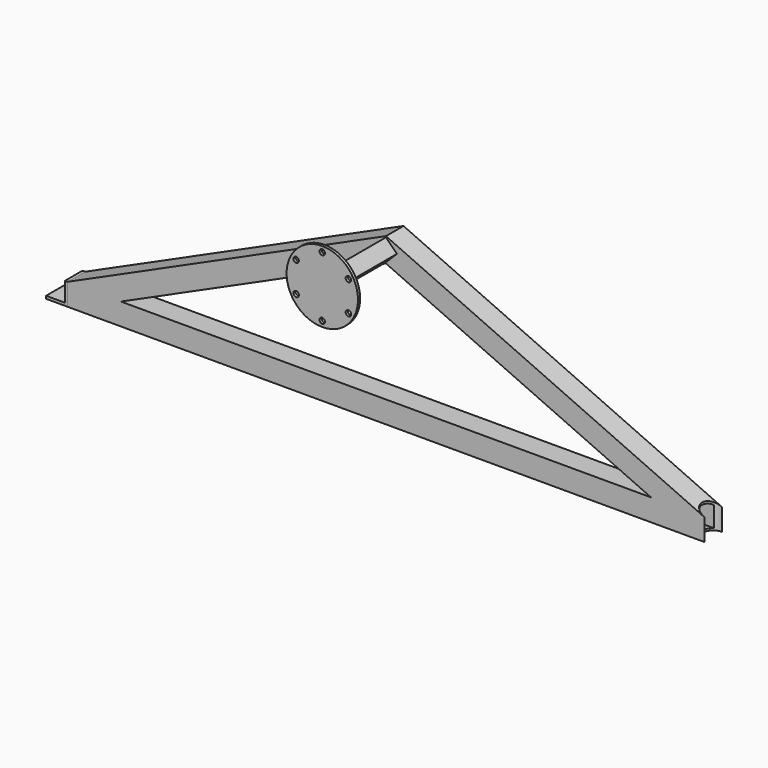
from build123d import *

# Parameters (mm, degrees)
F1_DEPTH  = 50.8
F2_T      = -4.7752
F4_DEPTH  = 50.8
F6_DEPTH  = 177.8
F7_R      = 82.55
F8_DEPTH  = 6.35
F10_DEPTH = 50.8


with BuildPart() as f1:
    # F0 (on Front) → F1 (new body)
    with BuildSketch(Plane.XZ):
        Polygon((736.6, 332.6702846865), (0, 0), (123.4210126066, 0), (736.6, 276.9297153135), align=None)
        Polygon((1473.2, 0), (736.6, 332.6702846865), (736.6, 276.9297153135), (1349.7789873934, 0), align=None)
        Polygon((123.4210126066, 0), (0, 0), (0, -50.8), (1473.2, -50.8), (1473.2, 0), (1349.7789873934, 0), align=None)
    extrude(amount=F1_DEPTH)

    # F2
    f2_openings = [f1.faces().sort_by_distance(p)[0] for p in [
        (1473.2, -25.4, -25.4),
    ]]
    offset(amount=F2_T, openings=f2_openings, kind=Kind.INTERSECTION)

    # F3 (on Top) → F4 (cut, symmetric)
    with BuildSketch(Plane.XY):
        with BuildLine():
            ThreePointArc((1473.2, 0), (1447.8, -25.4), (1473.2, -50.8))
            Line((1473.2, -50.8), (1473.2, 0))
        make_face()
        with BuildLine():
            Line((1473.2, 0), (1473.2, -50.8))
            ThreePointArc((1473.2, -50.8), (1491.1605122421, -43.3605122421), (1498.6, -25.4))
            ThreePointArc((1498.6, -25.4), (1491.1605122421, -7.4394877579), (1473.2, 0))
        make_face()
    extrude(amount=F4_DEPTH, both=True, mode=Mode.SUBTRACT)

    # F5 (on face) → F6 (join)
    with BuildSketch(Plane.XZ.offset(50.8)):
        Polygon((736.6, 279.4), (736.6, 304.8), (711.2, 304.8), align=None)
        Polygon((711.2, 304.8), (736.6, 304.8), (736.6, 330.2), align=None)
        Polygon((736.6, 330.2), (736.6, 304.8), (762, 304.8), align=None)
        Polygon((762, 304.8), (736.6, 304.8), (736.6, 279.4), align=None)
    extrude(amount=F6_DEPTH)

    # F7 (on face) → F8 (join)
    with BuildSketch(Plane.XZ.offset(228.6)):
        with Locations((736.6, 304.8)):
            Circle(F7_R)
        with BuildLine():
            ThreePointArc((742.95, 374.65), (742.9483589606, 374.5056445122), (742.9434366908, 374.3613636364))
            ThreePointArc((742.9434366908, 374.3613636364), (771.525, 365.2918744543), (793.6701896856, 345.0742591397))
            ThreePointArc((793.6701896856, 345.0742591397), (800.141038415, 345.2950178762), (803.4418744543, 339.725))
            ThreePointArc((803.4418744543, 339.725), (802.5175368427, 336.4258050001), (800.0136263764, 334.0871044967))
            ThreePointArc((800.0136263764, 334.0871044967), (804.8219330655, 319.7930099982), (806.45, 304.8))
            ThreePointArc((806.45, 304.8), (804.8219330655, 289.8069900018), (800.0136263764, 275.5128955033))
            ThreePointArc((800.0136263764, 275.5128955033), (802.5175368427, 273.1741949999), (803.4418744543, 269.875))
            ThreePointArc((803.4418744543, 269.875), (800.141038415, 264.3049821238), (793.6701896856, 264.5257408603))
            ThreePointArc((793.6701896856, 264.5257408603), (771.525, 244.3081255457), (742.9434366908, 235.2386363636))
            ThreePointArc((742.9434366908, 235.2386363636), (742.9483589606, 235.0943554878), (742.95, 234.95))
            ThreePointArc((742.95, 234.95), (736.4556445122, 228.6016410394), (730.2565633092, 235.2386363636))
            ThreePointArc((730.2565633092, 235.2386363636), (701.675, 244.3081255457), (679.5298103144, 264.5257408603))
            ThreePointArc((679.5298103144, 264.5257408603), (670.6088642316, 266.7), (673.1863736236, 275.5128955033))
            ThreePointArc((673.1863736236, 275.5128955033), (666.75, 304.8), (673.1863736236, 334.0871044967))
            ThreePointArc((673.1863736236, 334.0871044967), (670.6088642316, 342.9), (679.5298103144, 345.0742591397))
            ThreePointArc((679.5298103144, 345.0742591397), (701.675, 365.2918744543), (730.2565633092, 374.3613636364))
            ThreePointArc((730.2565633092, 374.3613636364), (736.4556445122, 380.9983589606), (742.95, 374.65))
        make_face(mode=Mode.SUBTRACT)
        with BuildLine():
            ThreePointArc((742.099261314, 371.475), (739.775, 369.150738686), (736.6, 368.3))
            ThreePointArc((736.6, 368.3), (733.425, 369.150738686), (731.100738686, 371.475))
            Line((731.100738686, 371.475), (681.6073868597, 342.9))
            ThreePointArc((681.6073868597, 342.9), (682.2417545426, 341.3685009364), (682.4581255457, 339.725))
            ThreePointArc((682.4581255457, 339.725), (680.5982536062, 335.2348719395), (676.1081255457, 333.375))
            Line((676.1081255457, 333.375), (676.1081255457, 276.225))
            ThreePointArc((676.1081255457, 276.225), (680.5982536062, 274.3651280605), (682.4581255457, 269.875))
            ThreePointArc((682.4581255457, 269.875), (682.2417545426, 268.2314990636), (681.6073868597, 266.7))
            Line((681.6073868597, 266.7), (731.100738686, 238.125))
            ThreePointArc((731.100738686, 238.125), (736.6, 241.3), (742.099261314, 238.125))
            Line((742.099261314, 238.125), (791.5926131403, 266.7))
            ThreePointArc((791.5926131403, 266.7), (791.5926131403, 273.05), (797.0918744543, 276.225))
            Line((797.0918744543, 276.225), (797.0918744543, 333.375))
            ThreePointArc((797.0918744543, 333.375), (791.5926131403, 336.55), (791.5926131403, 342.9))
            Line((791.5926131403, 342.9), (742.099261314, 371.475))
        make_face()
        Polygon((736.6, 279.4), (711.2, 304.8), (736.6, 330.2), (762, 304.8), align=None, mode=Mode.SUBTRACT)
        Polygon((736.6, 330.2), (711.2, 304.8), (736.6, 279.4), (762, 304.8), align=None)
        with BuildLine():
            Line((681.6073868597, 342.9), (731.100738686, 371.475))
            ThreePointArc((731.100738686, 371.475), (730.5053180749, 372.867487102), (730.2565633092, 374.3613636364))
            ThreePointArc((730.2565633092, 374.3613636364), (701.675, 365.2918744543), (679.5298103144, 345.0742591397))
            ThreePointArc((679.5298103144, 345.0742591397), (680.6991679605, 344.1118929261), (681.6073868597, 342.9))
        make_face()
        with BuildLine():
            ThreePointArc((742.9434366908, 374.3613636364), (742.6946819251, 372.867487102), (742.099261314, 371.475))
            Line((742.099261314, 371.475), (791.5926131403, 342.9))
            ThreePointArc((791.5926131403, 342.9), (792.5008320395, 344.1118929261), (793.6701896856, 345.0742591397))
            ThreePointArc((793.6701896856, 345.0742591397), (771.525, 365.2918744543), (742.9434366908, 374.3613636364))
        make_face()
        with BuildLine():
            ThreePointArc((800.0136263764, 334.0871044967), (798.5955139647, 333.5555941759), (797.0918744543, 333.375))
            Line((797.0918744543, 333.375), (797.0918744543, 276.225))
            ThreePointArc((797.0918744543, 276.225), (798.5955139647, 276.0444058241), (800.0136263764, 275.5128955033))
            ThreePointArc((800.0136263764, 275.5128955033), (804.8219330655, 289.8069900018), (806.45, 304.8))
            ThreePointArc((806.45, 304.8), (804.8219330655, 319.7930099982), (800.0136263764, 334.0871044967))
        make_face()
        with BuildLine():
            ThreePointArc((793.6701896856, 264.5257408603), (792.5008320395, 265.4881070739), (791.5926131403, 266.7))
            Line((791.5926131403, 266.7), (742.099261314, 238.125))
            ThreePointArc((742.099261314, 238.125), (742.6946819251, 236.732512898), (742.9434366908, 235.2386363636))
            ThreePointArc((742.9434366908, 235.2386363636), (771.525, 244.3081255457), (793.6701896856, 264.5257408603))
        make_face()
        with BuildLine():
            ThreePointArc((681.6073868597, 266.7), (680.6991679605, 265.4881070739), (679.5298103144, 264.5257408603))
            ThreePointArc((679.5298103144, 264.5257408603), (701.675, 244.3081255457), (730.2565633092, 235.2386363636))
            ThreePointArc((730.2565633092, 235.2386363636), (730.5053180749, 236.732512898), (731.100738686, 238.125))
            Line((731.100738686, 238.125), (681.6073868597, 266.7))
        make_face()
        with BuildLine():
            ThreePointArc((676.1081255457, 333.375), (674.6044860353, 333.5555941759), (673.1863736236, 334.0871044967))
            ThreePointArc((673.1863736236, 334.0871044967), (666.75, 304.8), (673.1863736236, 275.5128955033))
            ThreePointArc((673.1863736236, 275.5128955033), (674.6044860353, 276.0444058241), (676.1081255457, 276.225))
            Line((676.1081255457, 276.225), (676.1081255457, 333.375))
        make_face()
    extrude(amount=F8_DEPTH)


with BuildPart() as f10:
    # F9 (on face) → F10 (new body)
    with BuildSketch(Plane.XZ.offset(50.8)):
        Polygon((-49.7083738446, -50.8), (0, -50.8), (0, 0), (-6.35, 0), (-6.35, -44.45), (-49.7083738446, -44.45), align=None)
    extrude(amount=-F10_DEPTH)


solid = Compound([f1.part, f10.part])
